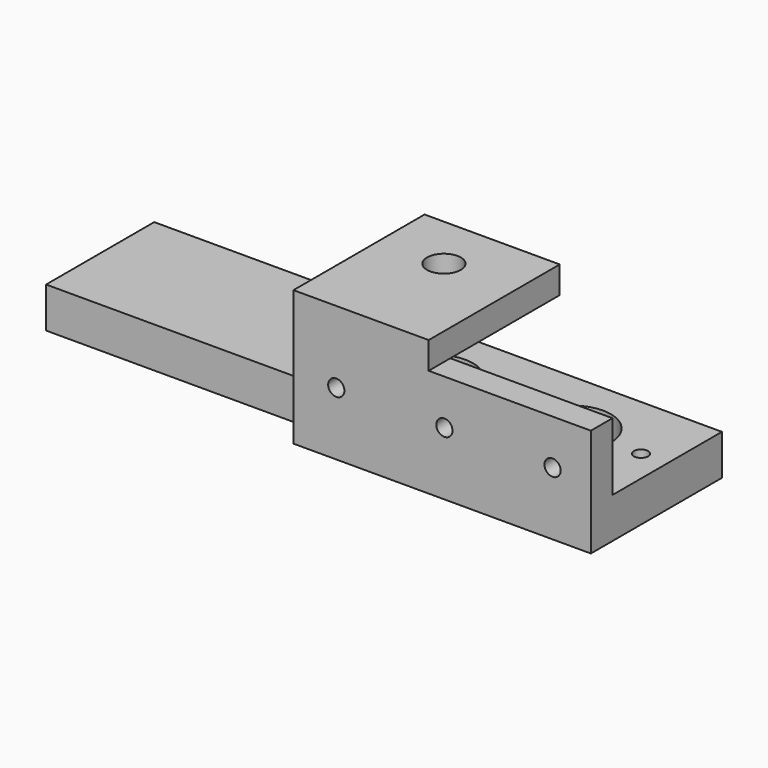
from build123d import *

# Parameters (mm, degrees)
F0_W      = 110
F0_H      = 50.6
F0_R      = 14.25
F0_R_2    = 2.655333
F1_DEPTH  = 15
F2_W      = 110
F2_H      = 40
F3_DEPTH  = 10
F4_R      = 3
F5_DEPTH  = 25
F6_W      = 50
F6_H      = 60.6
F7_DEPTH  = 10
F8_R      = 6.25
F9_DEPTH  = 25
F11_W     = 100
F11_H     = 50
F12_DEPTH = 15


with BuildPart() as f1:
    # F0 (on Top) → F1 (new body)
    with BuildSketch(Plane.XY):
        with Locations((55, -25.3)):
            Rectangle(F0_W, F0_H)
        with Locations((23.936599, -25.3)):
            Circle(F0_R, mode=Mode.SUBTRACT)
        with Locations((49.495114, -25.3)):
            Circle(F0_R_2, mode=Mode.SUBTRACT)
        with Locations((74.895114, -25.3)):
            Circle(F0_R, mode=Mode.SUBTRACT)
        with Locations((100.295114, -25.3)):
            Circle(F0_R_2, mode=Mode.SUBTRACT)
    extrude(amount=F1_DEPTH)

    # F2 (on face) → F3 (join)
    with BuildSketch(Plane.XZ.offset(50.6)):
        with Locations((55, 20)):
            Rectangle(F2_W, F2_H)
    extrude(amount=F3_DEPTH)

    # F4 (on face) → F5 (cut)
    with BuildSketch(Plane(origin=(0, -50.6, 0), x_dir=(-1, 0, 0), z_dir=(0, 1, 0))):
        with Locations((-95.825091, 23.370054)):
            Circle(F4_R)
        with Locations((-55.825091, 23.370054)):
            Circle(F4_R)
        with Locations((-15.825091, 23.370054)):
            Circle(F4_R)
    extrude(amount=-F5_DEPTH, mode=Mode.SUBTRACT)

    # F6 (on face) → F7 (join)
    with BuildSketch(Plane.XY.offset(40)):
        with Locations((25, -30.3)):
            Rectangle(F6_W, F6_H)
    extrude(amount=F7_DEPTH)

    # F8 (on face) → F9 (cut)
    with BuildSketch(Plane.XY.offset(50)):
        with Locations((23.590377, -20.537321)):
            Circle(F8_R)
    extrude(amount=-F9_DEPTH, mode=Mode.SUBTRACT)

    # F11 (on Top) → F12 (join)
    with BuildSketch(Plane.XY):
        with Locations((-50, -25)):
            Rectangle(F11_W, F11_H)
    extrude(amount=F12_DEPTH)


solid = f1.part
